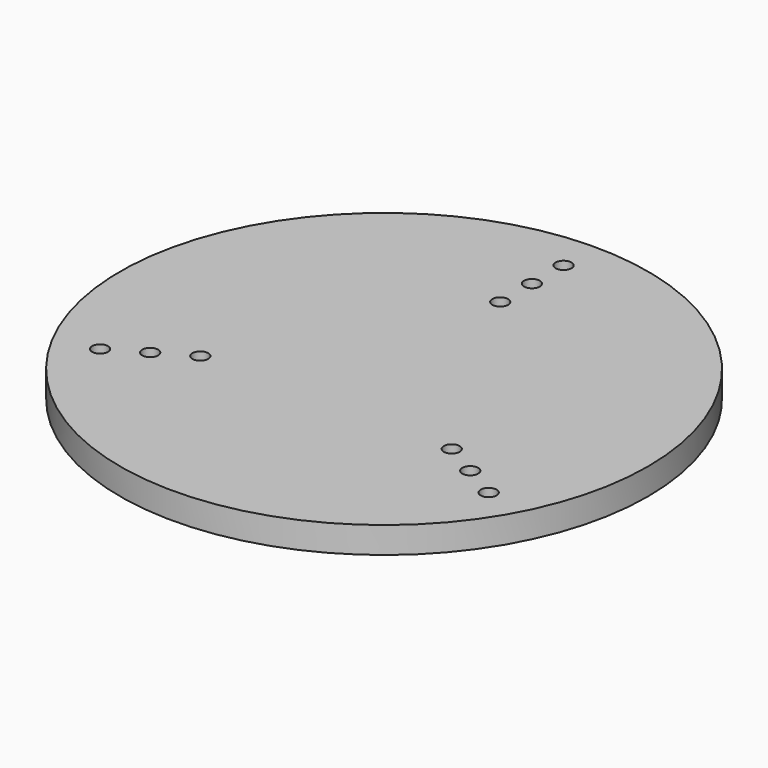
from build123d import *

# Parameters (mm, degrees)
F0_R     = 50
F0_R_2   = 1.5
F1_DEPTH = 5


with BuildPart() as f1:
    # F0 (on Top) → F1 (new body)
    with BuildSketch(Plane.XY):
        Circle(F0_R)
        with Locations((-36.80608, -21.25)):
            Circle(F0_R_2, mode=Mode.SUBTRACT)
        with Locations((-30.310889, -17.5)):
            Circle(F0_R_2, mode=Mode.SUBTRACT)
        with Locations((-23.815699, -13.75)):
            Circle(F0_R_2, mode=Mode.SUBTRACT)
        with Locations((23.815699, -13.75)):
            Circle(F0_R_2, mode=Mode.SUBTRACT)
        with Locations((36.80608, -21.25)):
            Circle(F0_R_2, mode=Mode.SUBTRACT)
        with Locations((30.310889, -17.5)):
            Circle(F0_R_2, mode=Mode.SUBTRACT)
        with Locations((0, 27.5)):
            Circle(F0_R_2, mode=Mode.SUBTRACT)
        with Locations((0, 35)):
            Circle(F0_R_2, mode=Mode.SUBTRACT)
        with Locations((0, 42.5)):
            Circle(F0_R_2, mode=Mode.SUBTRACT)
    extrude(amount=F1_DEPTH)


solid = f1.part
